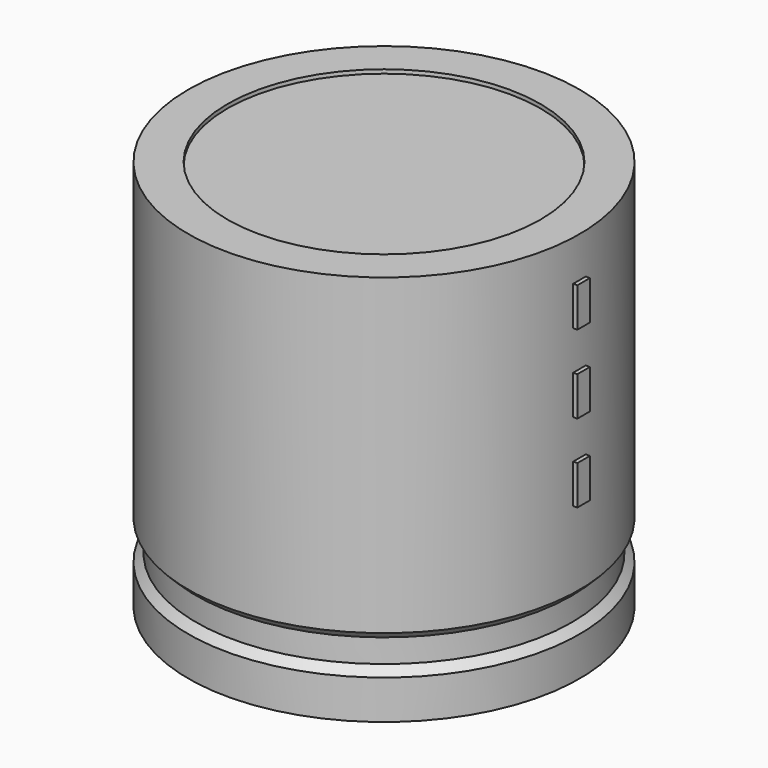
from build123d import *

# Parameters (mm, degrees)
SKETCH002_W  = 11.96
SKETCH002_H  = 25.48
SKETCH003_R  = 0.85
PAD_DEPTH    = 5.6
SKETCH004_W  = 1.04
SKETCH004_H  = 2.6
PAD001_DEPTH = 13.26


with BuildPart() as revolution:
    # Sketch → Revolution (revolve)
    with BuildSketch(Plane.XZ):
        Polygon((-8, 0.1), (-8, 2.7), (-7.48, 3.22), (-7.48, 4.78), (-8, 5.3), (-8, 26.1), (-5.4, 26.1), (-5.4, 0.1), align=None)
    revolve(axis=Axis((5, 0, 7.548619), (0, 0, -1)))


with BuildPart() as revolution001:
    # Sketch002 → Revolution001 (revolve)
    with BuildSketch(Plane.XZ):
        with Locations((-0.98, 13.1)):
            Rectangle(SKETCH002_W, SKETCH002_H)
    revolve(axis=Axis((5, 0, 4.680116), (0, 0, -1)))


with BuildPart() as pad:
    # Sketch003 → Pad (new body)
    with BuildSketch(Plane.XY.offset(2.6)):
        Circle(SKETCH003_R)
        with Locations((10, 0)):
            Circle(SKETCH003_R)
    extrude(amount=-PAD_DEPTH)


with BuildPart() as pad001:
    # Sketch004 → Pad001 (new body)
    with BuildSketch(Plane.YZ.offset(5)):
        with Locations((0, 11.7)):
            Rectangle(SKETCH004_W, SKETCH004_H)
        with Locations((0, 16.9)):
            Rectangle(SKETCH004_W, SKETCH004_H)
        with Locations((0, 22.1)):
            Rectangle(SKETCH004_W, SKETCH004_H)
    extrude(amount=PAD001_DEPTH)


solid = Compound([revolution.part, revolution001.part, pad.part, pad001.part])
